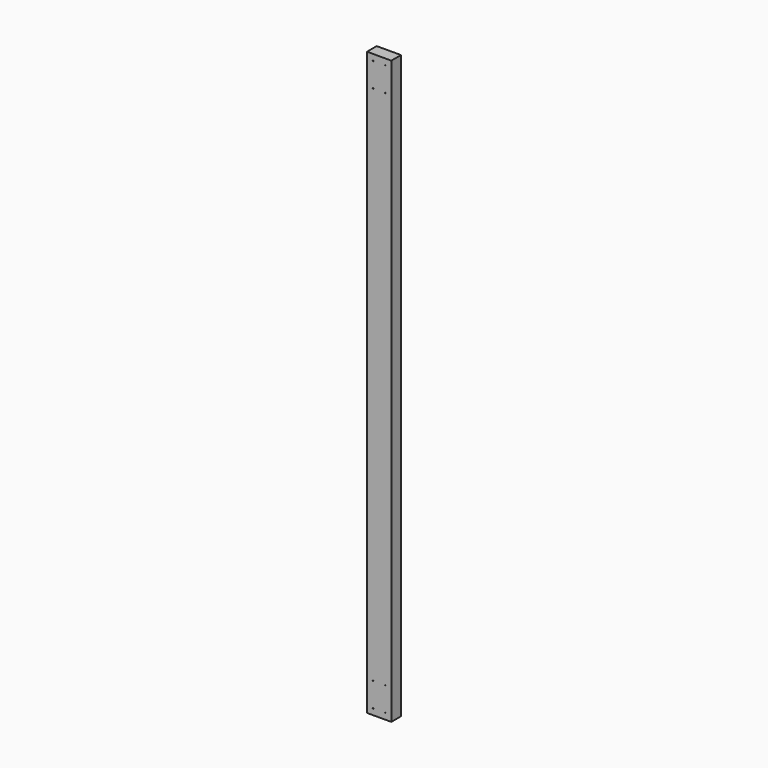
from build123d import *

# Parameters (mm, degrees)
F0_W     = 101.6
F0_H     = 2438.4
F0_R     = 1.5875
F1_DEPTH = 50.8


with BuildPart() as f1:
    # F0 (on Front) → F1 (new body)
    with BuildSketch(Plane.XZ):
        with Locations((-0.766699, 1089.666607)):
            Rectangle(F0_W, F0_H)
        with Locations((-26.166699, -104.133393)):
            Circle(F0_R, mode=Mode.SUBTRACT)
        with Locations((-26.166699, -2.533393)):
            Circle(F0_R, mode=Mode.SUBTRACT)
        with Locations((24.633301, -104.133393)):
            Circle(F0_R, mode=Mode.SUBTRACT)
        with Locations((24.633301, -2.533393)):
            Circle(F0_R, mode=Mode.SUBTRACT)
        with Locations((-26.166699, 2181.866607)):
            Circle(F0_R, mode=Mode.SUBTRACT)
        with Locations((-26.166699, 2283.466607)):
            Circle(F0_R, mode=Mode.SUBTRACT)
        with Locations((24.633301, 2181.866607)):
            Circle(F0_R, mode=Mode.SUBTRACT)
        with Locations((24.633301, 2283.466607)):
            Circle(F0_R, mode=Mode.SUBTRACT)
    extrude(amount=F1_DEPTH)


solid = f1.part
